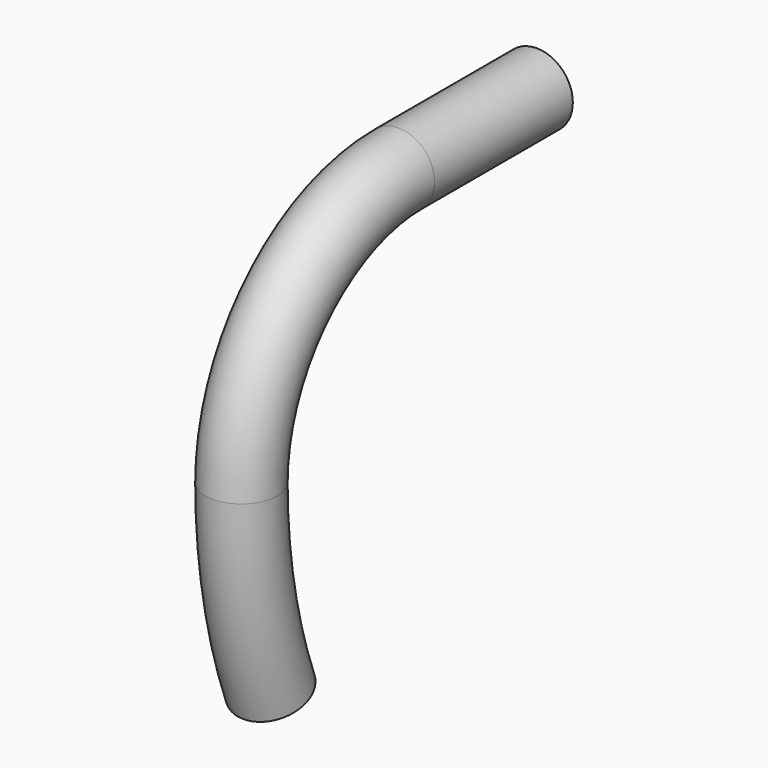
from build123d import *

# Parameters (mm, degrees)
F0_R = 4.6


with BuildPart() as f2:
    # F2: sweep along a path in F1
    with BuildLine(Plane.YZ) as f2_path:
        Line((0, 0), (-22, 0))
        ThreePointArc((-22, 0), (-39.67767, -7.32233), (-47, -25))
        ThreePointArc((-47, -25), (-45.836196, -37.711336), (-42.383484, -50))
    # F0 (on Front) → F2 (sweep)
    with BuildSketch(Plane.XZ):
        Circle(F0_R)
    sweep(path=f2_path.line)


solid = f2.part
